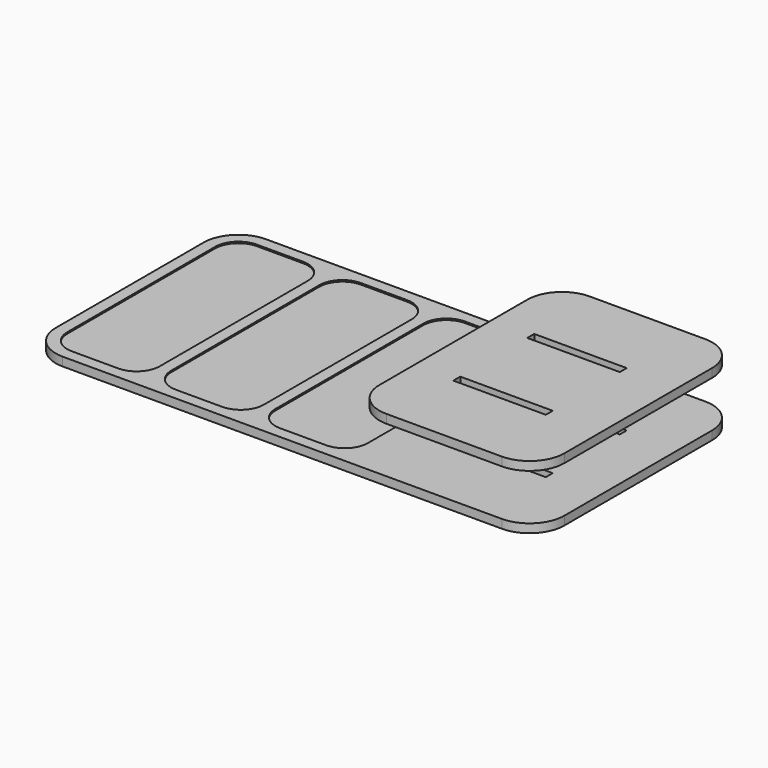
from build123d import *

# Parameters (mm, degrees)
F0_W     = 203.2
F0_H     = 19.05
F1_DEPTH = 19.05
F2_DEPTH = 15.875
F4_W     = 203.2
F4_H     = 19.05
F5_DEPTH = 19.05
F6_DEPTH = 25.4
F7_DEPTH = 25.4


with BuildPart() as f1:
    # F0 (on Top) → F1 (new body)
    with BuildSketch(Plane.XY):
        with BuildLine():
            Line((-482.6, -279.4), (482.6, -279.4))
            ThreePointArc((482.6, -279.4), (536.4815367264, -257.0815367264), (558.8, -203.2))
            Line((558.8, -203.2), (558.8, 203.2))
            ThreePointArc((558.8, 203.2), (536.4815367264, 257.0815367264), (482.6, 279.4))
            Line((482.6, 279.4), (-482.6, 279.4))
            ThreePointArc((-482.6, 279.4), (-536.4815367264, 257.0815367264), (-558.8, 203.2))
            Line((-558.8, 203.2), (-558.8, -203.2))
            ThreePointArc((-558.8, -203.2), (-536.4815367264, -257.0815367264), (-482.6, -279.4))
        make_face()
        with Locations((342.9, -101.6)):
            Rectangle(F0_W, F0_H, mode=Mode.SUBTRACT)
        with BuildLine():
            ThreePointArc((-533.4, 203.2), (-518.5210244843, 239.1210244843), (-482.6, 254))
            Line((-482.6, 254), (-381, 254))
            ThreePointArc((-381, 254), (-345.0789755157, 239.1210244843), (-330.2, 203.2))
            Line((-330.2, 203.2), (-330.2, -203.2))
            ThreePointArc((-330.2, -203.2), (-345.0789755157, -239.1210244843), (-381, -254))
            Line((-381, -254), (-482.6, -254))
            ThreePointArc((-482.6, -254), (-518.5210244843, -239.1210244843), (-533.4, -203.2))
            Line((-533.4, -203.2), (-533.4, 203.2))
        make_face(mode=Mode.SUBTRACT)
        with BuildLine():
            Line((-304.8, -203.2), (-304.8, 203.2))
            ThreePointArc((-304.8, 203.2), (-289.9210244843, 239.1210244843), (-254, 254))
            Line((-254, 254), (-152.4, 254))
            ThreePointArc((-152.4, 254), (-116.4789755157, 239.1210244843), (-101.6, 203.2))
            Line((-101.6, 203.2), (-101.6, -203.2))
            ThreePointArc((-101.6, -203.2), (-116.4789755157, -239.1210244843), (-152.4, -254))
            Line((-152.4, -254), (-254, -254))
            ThreePointArc((-254, -254), (-289.9210244843, -239.1210244843), (-304.8, -203.2))
        make_face(mode=Mode.SUBTRACT)
        with BuildLine():
            Line((-25.4, 254), (76.2, 254))
            ThreePointArc((76.2, 254), (112.1210244843, 239.1210244843), (127, 203.2))
            Line((127, 203.2), (127, 0))
            Line((127, 0), (127, -203.2))
            ThreePointArc((127, -203.2), (112.1210244843, -239.1210244843), (76.2, -254))
            Line((76.2, -254), (-25.4, -254))
            ThreePointArc((-25.4, -254), (-61.3210244843, -239.1210244843), (-76.2, -203.2))
            Line((-76.2, -203.2), (-76.2, 203.2))
            ThreePointArc((-76.2, 203.2), (-61.3210244843, 239.1210244843), (-25.4, 254))
        make_face(mode=Mode.SUBTRACT)
        with Locations((342.9, 101.6)):
            Rectangle(F0_W, F0_H, mode=Mode.SUBTRACT)
    extrude(amount=F1_DEPTH)

    # F0 (on Top) → F2 (join)
    with BuildSketch(Plane.XY):
        with BuildLine():
            Line((-381, 254), (-482.6, 254))
            ThreePointArc((-482.6, 254), (-518.5210244843, 239.1210244843), (-533.4, 203.2))
            Line((-533.4, 203.2), (-533.4, -203.2))
            ThreePointArc((-533.4, -203.2), (-518.5210244843, -239.1210244843), (-482.6, -254))
            Line((-482.6, -254), (-381, -254))
            ThreePointArc((-381, -254), (-345.0789755157, -239.1210244843), (-330.2, -203.2))
            Line((-330.2, -203.2), (-330.2, 203.2))
            ThreePointArc((-330.2, 203.2), (-345.0789755157, 239.1210244843), (-381, 254))
        make_face()
        with BuildLine():
            ThreePointArc((-254, 254), (-289.9210244843, 239.1210244843), (-304.8, 203.2))
            Line((-304.8, 203.2), (-304.8, -203.2))
            ThreePointArc((-304.8, -203.2), (-289.9210244843, -239.1210244843), (-254, -254))
            Line((-254, -254), (-152.4, -254))
            ThreePointArc((-152.4, -254), (-116.4789755157, -239.1210244843), (-101.6, -203.2))
            Line((-101.6, -203.2), (-101.6, 203.2))
            ThreePointArc((-101.6, 203.2), (-116.4789755157, 239.1210244843), (-152.4, 254))
            Line((-152.4, 254), (-254, 254))
        make_face()
        with BuildLine():
            ThreePointArc((127, 203.2), (112.1210244843, 239.1210244843), (76.2, 254))
            Line((76.2, 254), (-25.4, 254))
            ThreePointArc((-25.4, 254), (-61.3210244843, 239.1210244843), (-76.2, 203.2))
            Line((-76.2, 203.2), (-76.2, -203.2))
            ThreePointArc((-76.2, -203.2), (-61.3210244843, -239.1210244843), (-25.4, -254))
            Line((-25.4, -254), (76.2, -254))
            ThreePointArc((76.2, -254), (112.1210244843, -239.1210244843), (127, -203.2))
            Line((127, -203.2), (127, 0))
            Line((127, 0), (127, 203.2))
        make_face()
    extrude(amount=F2_DEPTH)

    # F0 (on Top) → F6 (cut)
    with BuildSketch(Plane.XY):
        with Locations((342.9, -101.6)):
            Rectangle(F0_W, F0_H)
        with Locations((342.9, 101.6)):
            Rectangle(F0_W, F0_H)
    extrude(amount=-F6_DEPTH, mode=Mode.SUBTRACT)

    # F4 (on offset) → F7 (cut)
    with BuildSketch(Plane.XY.offset(120.65)):
        with Locations((342.9, 101.6)):
            Rectangle(F4_W, F4_H)
        with Locations((342.9, -101.6)):
            Rectangle(F4_W, F4_H)
    extrude(amount=-F7_DEPTH, mode=Mode.SUBTRACT)


with BuildPart() as f5:
    # F4 (on offset) → F5 (new body)
    with BuildSketch(Plane.XY.offset(120.65)):
        with BuildLine():
            ThreePointArc((482.6, -279.4), (536.4815367264, -257.0815367264), (558.8, -203.2))
            Line((558.8, -203.2), (558.8, 203.2))
            ThreePointArc((558.8, 203.2), (536.4815367264, 257.0815367264), (482.6, 279.4))
            Line((482.6, 279.4), (228.6, 279.4))
            ThreePointArc((228.6, 279.4), (174.7184632736, 257.0815367264), (152.4, 203.2))
            Line((152.4, 203.2), (152.4, -203.2))
            ThreePointArc((152.4, -203.2), (174.7184632736, -257.0815367264), (228.6, -279.4))
            Line((228.6, -279.4), (482.6, -279.4))
        make_face()
        with Locations((342.9, -101.6)):
            Rectangle(F4_W, F4_H, mode=Mode.SUBTRACT)
        with Locations((342.9, 101.6)):
            Rectangle(F4_W, F4_H, mode=Mode.SUBTRACT)
    extrude(amount=F5_DEPTH)


solid = Compound([f1.part, f5.part])
